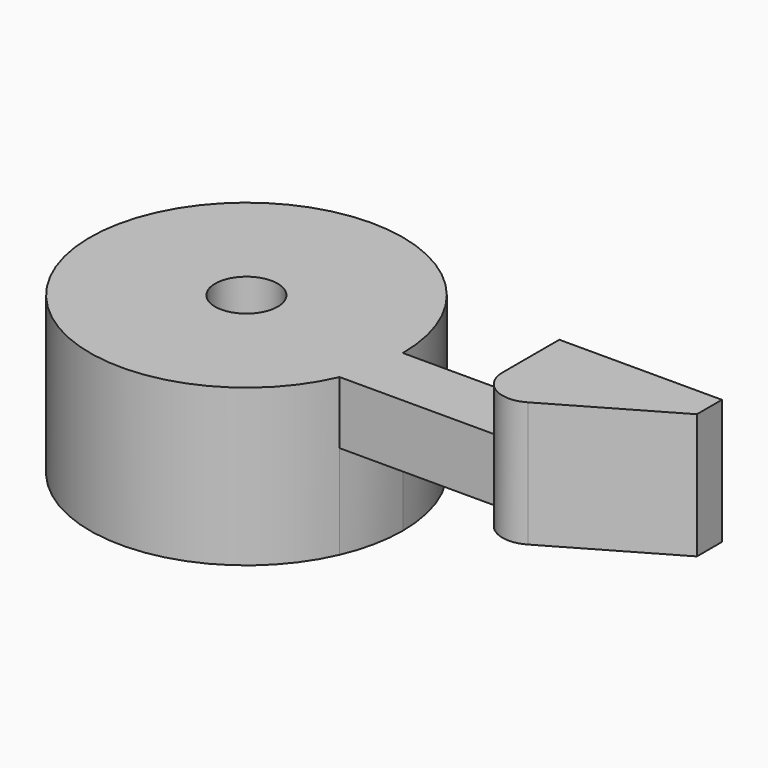
from build123d import *

# Parameters (mm, degrees)
F1_DEPTH = 5
F2_DEPTH = 2
F3_DEPTH = 2
F4_R     = 1
F5_D     = 2


with BuildPart() as f1:
    # F0 (on Top) → F1 (new body)
    with BuildSketch(Plane.XY):
        with BuildLine():
            ThreePointArc((-6.139429, -0.003584), (-6.139428, -0.001792), (-6.139428, 0))
            ThreePointArc((-6.139428, 0), (-16.03356, 1.023463), (-6.558418, -2.003584))
            ThreePointArc((-6.558418, -2.003584), (-6.245664, -1.025217), (-6.139429, -0.003584))
        make_face()
    extrude(amount=-F1_DEPTH)

    # F0 (on Top) → F2 (join)
    with BuildSketch(Plane.XY):
        with BuildLine():
            ThreePointArc((-6.139429, -0.003584), (-6.245664, -1.025217), (-6.558418, -2.003584))
            Line((-6.558418, -2.003584), (-1.139429, -2.003584))
            Line((-1.139429, -2.003584), (-1.139429, -0.003584))
            Line((-1.139429, -0.003584), (-6.139429, -0.003584))
        make_face()
    extrude(amount=-F2_DEPTH)

    # F0 (on Top) → F3 (join, symmetric)
    with BuildSketch(Plane.XY):
        Polygon((-1.139429, -0.003584), (-1.139429, -2.003584), (-1.139429, -4.003584), (4.056571, -1.003584), (4.056571, -0.003584), align=None)
    extrude(amount=F3_DEPTH, both=True)

    # F4
    f4_edges = [f1.edges().sort_by_distance(p)[0] for p in [
        (-1.139429, -4.003584, 0),
    ]]
    fillet(f4_edges, radius=F4_R)

    # F5 (through all)
    with Locations(Plane.XY):
        with Locations((-11.139428, 0)):
            Hole(F5_D / 2)


solid = f1.part
